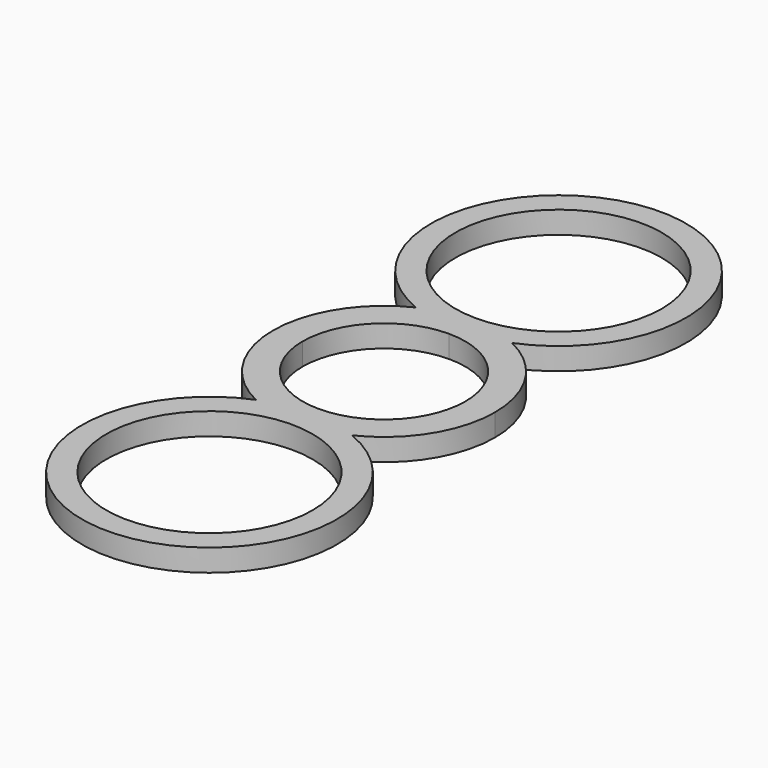
from build123d import *

# Parameters (mm, degrees)
F0_R     = 13.95
F1_DEPTH = 3


with BuildPart() as f1:
    # F0 (on Top) → F1 (new body)
    with BuildSketch(Plane.XY):
        with BuildLine():
            ThreePointArc((-11, 0), (0, -11), (11, 0))
            ThreePointArc((11, 0), (7.778175, 7.778175), (0, 11))
            ThreePointArc((0, 11), (-7.778175, 7.778175), (-11, 0))
        make_face()
        with BuildLine():
            ThreePointArc((13.95, 29.5), (-9.86414, 39.36414), (0, 15.55))
            ThreePointArc((0, 15.55), (9.86414, 19.63586), (13.95, 29.5))
        make_face()
        with BuildLine():
            ThreePointArc((6.496627, 13.520127), (0, 46.75), (-6.496627, 13.520127))
            ThreePointArc((-6.496627, 13.520127), (-12.697429, 7.985944), (-15, 0))
            ThreePointArc((-15, 0), (-12.697429, -7.985944), (-6.496627, -13.520127))
            ThreePointArc((-6.496627, -13.520127), (0, -46.75), (6.496627, -13.520127))
            ThreePointArc((6.496627, -13.520127), (12.697429, -7.985944), (15, 0))
            ThreePointArc((15, 0), (12.697429, 7.985944), (6.496627, 13.520127))
        make_face()
        with Locations((0, -29.5)):
            Circle(F0_R, mode=Mode.SUBTRACT)
        with BuildLine():
            ThreePointArc((0, 11), (7.778175, 7.778175), (11, 0))
            ThreePointArc((11, 0), (0, -11), (-11, 0))
            ThreePointArc((-11, 0), (-7.778175, 7.778175), (0, 11))
        make_face(mode=Mode.SUBTRACT)
        with BuildLine():
            ThreePointArc((13.95, 29.5), (9.86414, 19.63586), (0, 15.55))
            ThreePointArc((0, 15.55), (-9.86414, 39.36414), (13.95, 29.5))
        make_face(mode=Mode.SUBTRACT)
    extrude(amount=F1_DEPTH)


solid = f1.part
